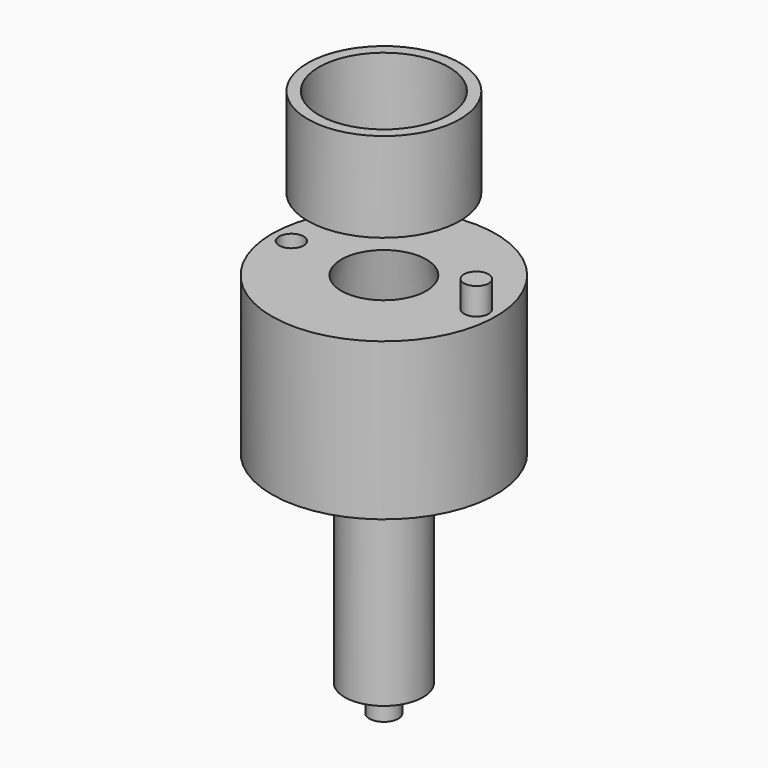
from build123d import *

# Parameters (mm, degrees)
F0_W    = 5
F0_H    = 40
F0_W_2  = 5.5
F0_H_2  = 12
F0_W_3  = 6.5
F4_SIZE = 1.5


with BuildPart() as f1:
    # F0 (on Front) → F1 (revolve)
    with BuildSketch(Plane.XZ):
        with Locations((-31.5, 87.3772501945)):
            Rectangle(F0_W, F0_H)
    revolve(axis=Axis((0, 0, -11.2999752164), (0, 0, 1)))


with BuildPart() as f2:
    # F0 (on Front) → F2 (revolve)
    with BuildSketch(Plane.XZ):
        Polygon((-50, -35), (-31.5, -35), (-19, 35), (-35.8, 35), (-35.8, 23), (-41.3, 23), (-46.8, 23), (-46.8, 35), (-50, 35), align=None)
        with Locations((-38.55, 29)):
            Rectangle(F0_W_2, F0_H_2)
        with Locations((-44.05, 29)):
            Rectangle(F0_W_2, F0_H_2)
    revolve(axis=Axis((0, 0, -11.2999752164), (0, 0, 1)))

    # F4
    f4_edges = [f2.edges().sort_by_distance(p)[0] for p in [
        (31.5, 0, -35),
    ]]
    chamfer(f4_edges, length=F4_SIZE)

    # F0 (on Front) → F5 (revolve, cut)
    with BuildSketch(Plane.XZ):
        with Locations((-44.05, 29)):
            Rectangle(F0_W_2, F0_H_2)
        with Locations((-44.05, 41)):
            Rectangle(F0_W_2, F0_H_2)
    revolve(axis=Axis((-41.3, 0, 39.9964758903), (0, 0, 1)), mode=Mode.SUBTRACT)

    # F0 (on Front) → F6 (revolve, cut)
    with BuildSketch(Plane.XZ):
        with Locations((38.55, 41)):
            Rectangle(F0_W_2, F0_H_2)
        with Locations((38.55, 29)):
            Rectangle(F0_W_2, F0_H_2)
    revolve(axis=Axis((41.3, 0, 37.3383955806), (0, 0, 1)), mode=Mode.SUBTRACT)


with BuildPart() as f3:
    # F0 (on Front) → F3 (revolve)
    with BuildSketch(Plane.XZ):
        Polygon((0, -125.286164403), (0, -50.286164403), (-17.5, -50.286164403), (-17.5, -125.286164403), (-6.5, -125.286164403), align=None)
        with Locations((-3.25, -131.286164403)):
            Rectangle(F0_W_3, F0_H_2)
    revolve(axis=Axis((0, 0, -11.2999752164), (0, 0, 1)))


with BuildPart() as f7:
    # F0 (on Front) → F7 (revolve)
    with BuildSketch(Plane.XZ):
        with Locations((38.55, 41)):
            Rectangle(F0_W_2, F0_H_2)
        with Locations((38.55, 29)):
            Rectangle(F0_W_2, F0_H_2)
    revolve(axis=Axis((41.3, 0, 37.3383955806), (0, 0, 1)))


solid = Compound([f1.part, f2.part, f3.part, f7.part])
